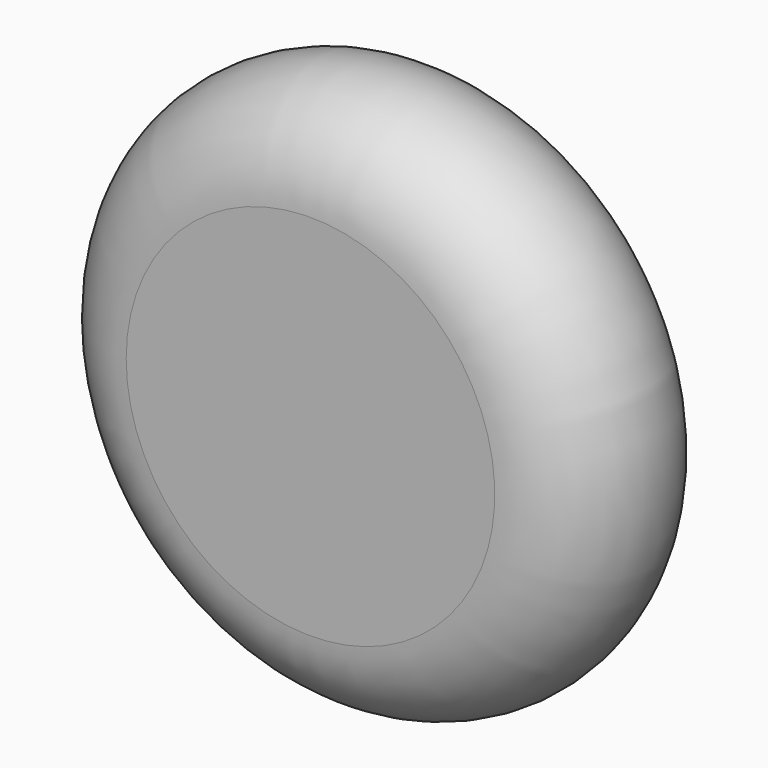
from build123d import *


with BuildPart() as f1:
    # F0 (on Top) → F1 (revolve)
    with BuildSketch(Plane.XY):
        with BuildLine():
            ThreePointArc((0, -5), (3.535534, -3.535534), (5, 0))
            ThreePointArc((5, 0), (4.513608, 2.151125), (3.149064, 3.883735))
            ThreePointArc((3.149064, 3.883735), (-4.712678, 1.670528), (0, -5))
        make_face()
        with BuildLine():
            ThreePointArc((3.149064, 3.883735), (4.513608, 2.151125), (5, 0))
            ThreePointArc((5, 0), (3.535534, -3.535534), (0, -5))
            Line((0, -5), (10, -5))
            Line((10, -5), (10, 0))
            ThreePointArc((10, 0), (6.536238, 1.874316), (3.149064, 3.883735))
        make_face()
    revolve(axis=Axis((10, -2.5, 0), (0, -1, 0)))


solid = f1.part
